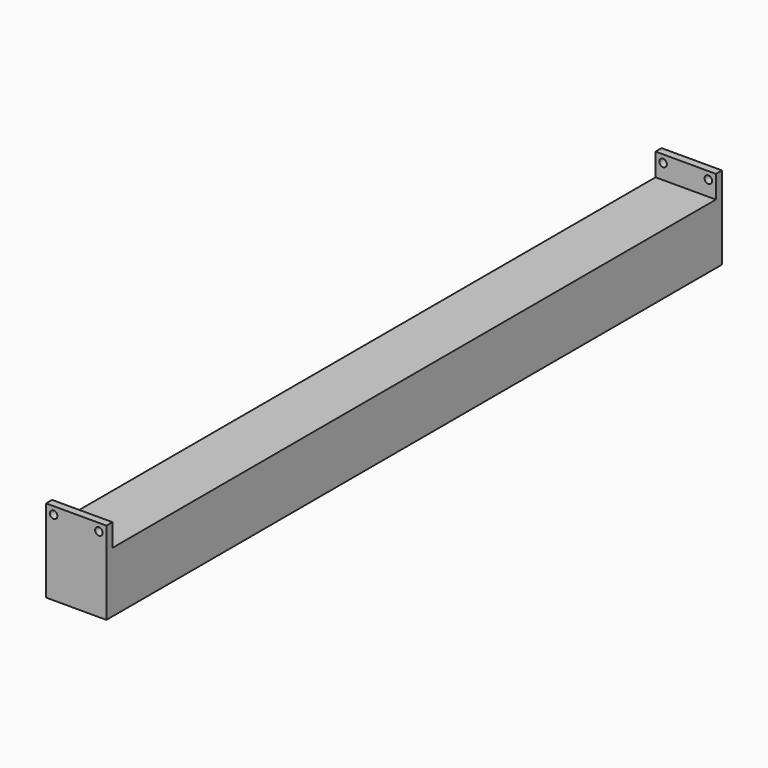
from build123d import *

# Parameters (mm, degrees)
F0_W     = 40
F0_H     = 40
F0_W_2   = 34
F0_H_2   = 34
F1_DEPTH = 250
F2_W     = 5
F2_H     = 55
F3_DEPTH = 20
F4_R     = 2.5
F5_DEPTH = 255


with BuildPart() as f1:
    # F0 (on Front) → F1 (new body, symmetric)
    with BuildSketch(Plane.XZ):
        Rectangle(F0_W, F0_H)
        Rectangle(F0_W_2, F0_H_2, mode=Mode.SUBTRACT)
    extrude(amount=F1_DEPTH, both=True)

    # F2 (on Right) → F3 (join, symmetric)
    with BuildSketch(Plane.YZ):
        with Locations((-252.5, 7.5)):
            Rectangle(F2_W, F2_H)
        with Locations((252.5, 7.5)):
            Rectangle(F2_W, F2_H)
    extrude(amount=F3_DEPTH, both=True)

    # F4 (on Front) → F5 (cut, symmetric)
    with BuildSketch(Plane.XZ):
        with Locations((-15, 30)):
            Circle(F4_R)
        with Locations((15, 30)):
            Circle(F4_R)
    extrude(amount=F5_DEPTH, both=True, mode=Mode.SUBTRACT)


solid = f1.part
